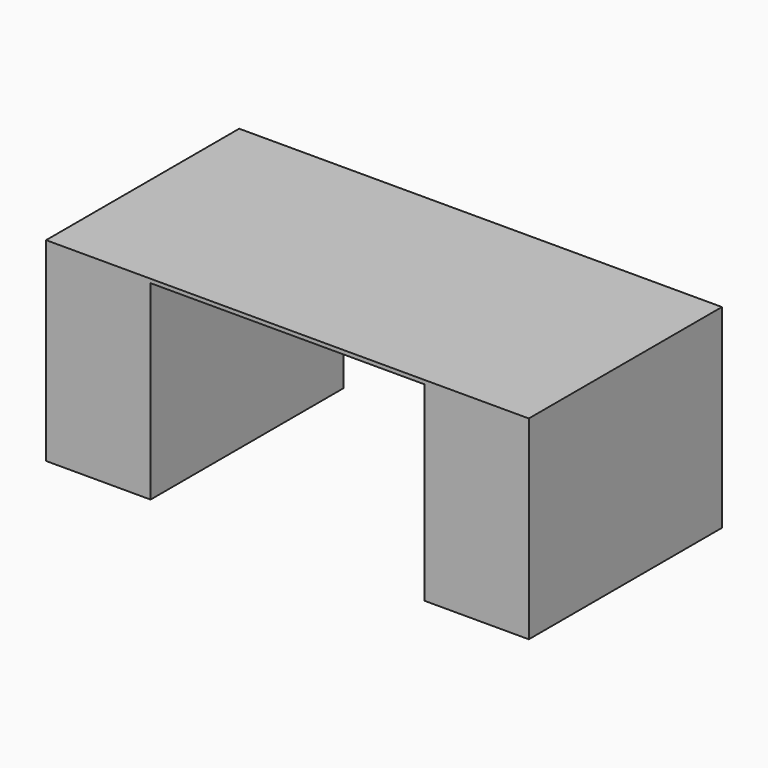
from build123d import *

# Parameters (mm, degrees)
F0_W     = 1828.8
F0_H     = 914.4
F1_DEPTH = 736.6
F2_W     = 1037.120306
F2_H     = 721.863797
F3_DEPTH = 914.401


with BuildPart() as f1:
    # F0 (on Top) → F1 (new body)
    with BuildSketch(Plane.XY):
        with Locations((914.4, 457.2)):
            Rectangle(F0_W, F0_H)
    extrude(amount=-F1_DEPTH)

    # F2 (on face) → F3 (cut, through all)
    with BuildSketch(Plane.XZ):
        with Locations((914.4, -375.668102)):
            Rectangle(F2_W, F2_H)
    extrude(amount=-F3_DEPTH, mode=Mode.SUBTRACT)


solid = f1.part
